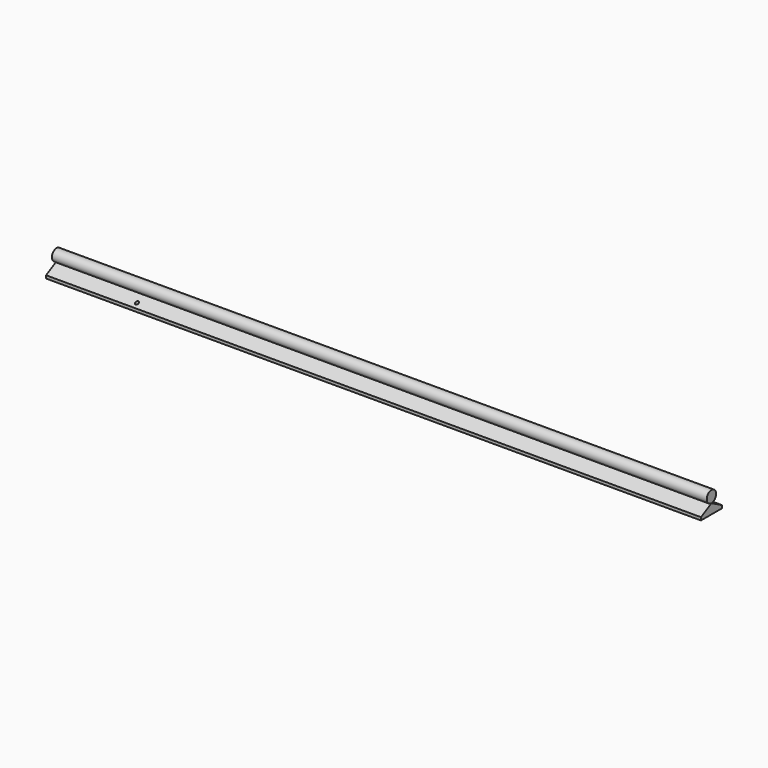
from build123d import *

# Parameters (mm, degrees)
F0_W     = 45
F0_H     = 5
F1_DEPTH = 1124
F3_D     = 5.5


with BuildPart() as f1:
    # F0 (on Right) → F1 (new body)
    with BuildSketch(Plane.YZ):
        with Locations((-22.5, 2.5)):
            Rectangle(F0_W, F0_H)
        Polygon((-45, 5), (0, 5), (-22.5, 17), align=None)
    extrude(amount=F1_DEPTH)

    # F3 (through all)
    with Locations(Plane(origin=(0, 0, 0), x_dir=(1, 0, 0), z_dir=(0, 0, -1))):
        with Locations((150, 37.5), (150, 7.5)):
            Hole(F3_D / 2)


with BuildPart() as f1b:
    # F0 (on Right) → F1, piece 2 (new body)
    with BuildSketch(Plane.YZ):
        with BuildLine():
            ThreePointArc((-12.5, 27), (-29.5710678119, 34.0710678119), (-22.5, 17))
            ThreePointArc((-22.5, 17), (-15.4289321881, 19.9289321881), (-12.5, 27))
        make_face()
    extrude(amount=F1_DEPTH)


solid = Compound([f1.part, f1b.part])
